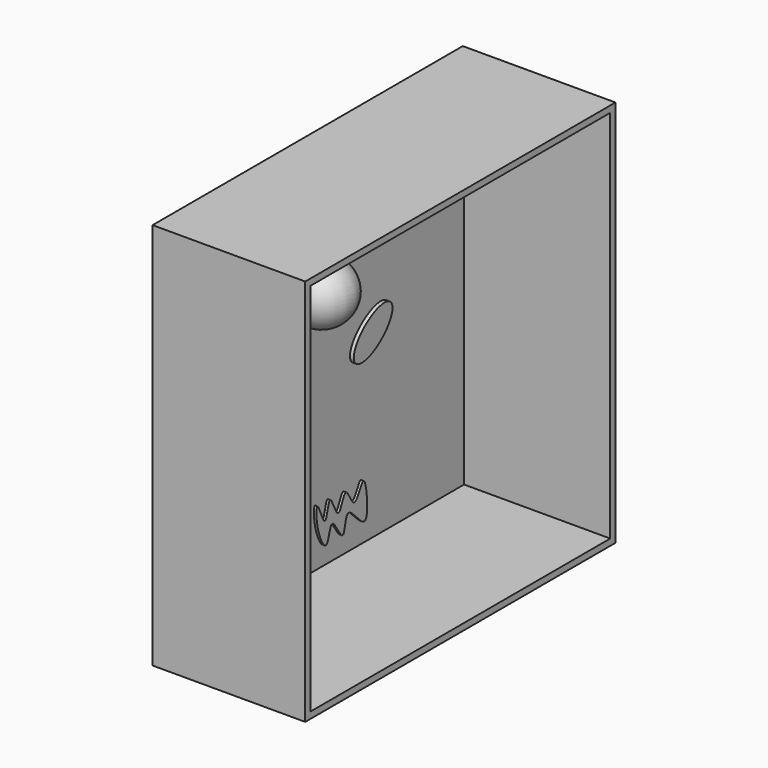
from build123d import *

# Parameters (mm, degrees)
F0_W      = 152.4
F0_H      = 152.4
F1_DEPTH  = 60
F2_T      = -2.54
F6_DEPTH  = 1.5
F7_R      = 3.6802392171
F8_DEPTH  = 0.5
F7_R_2    = 4.9126378425
F7_R_3    = 4.6610638241
F10_DEPTH = 1.5
F12_DEPTH = 1


with BuildPart() as f1:
    # F0 (on Right) → F1 (new body)
    with BuildSketch(Plane.YZ):
        with Locations((76.2, -76.2)):
            Rectangle(F0_W, F0_H)
    extrude(amount=F1_DEPTH)

    # F2
    f2_openings = [f1.faces().sort_by_distance(p)[0] for p in [
        (60, 76.2, -76.2),
    ]]
    offset(amount=F2_T, openings=f2_openings)

    # F3 (on face) → F4 (revolve)
    with BuildSketch(Plane.YZ.offset(2.54)):
        with BuildLine():
            ThreePointArc((79.6633884311, -65.9698620439), (91.8318244958, -54.4532556087), (79.6633884311, -42.9366491735))
            Line((79.6633884311, -42.9366491735), (79.6633884311, -65.9698620439))
        make_face()
    revolve(axis=Axis((2.54, 79.6633884311, -54.4532556087), (0, 0, -1)))


with BuildPart() as f6:
    # F5 (on face) → F6 (new body)
    with BuildSketch(Plane.YZ.offset(2.54)):
        with BuildLine():
            add(Edge.make_bspline(
                [(54.6334125102, -99.5150879025), (47.4939176999, -94.5946848604), (41.8866601866, -110.3707018601), (36.2794026732, -126.1467188597), (49.0261549968, -115.2911049022), (61.7729073204, -104.4354909446), (54.6334125102, -99.5150879025)],
                knots=[0, 0, 0, 2.0943951024, 2.0943951024, 4.1887902048, 4.1887902048, 6.2831853072, 6.2831853072, 6.2831853072], degree=2, weights=[1, 0.5, 1, 0.5, 1, 0.5, 1]))
        make_face()
    extrude(amount=F6_DEPTH)


with BuildPart() as f6b:
    # F5 (on face) → F6, piece 2 (new body)
    with BuildSketch(Plane.YZ.offset(2.54)):
        with BuildLine():
            add(Edge.make_bspline(
                [(112.1974140406, -71.0754618049), (106.2446007841, -63.3447960564), (95.89738, -77.4696678196), (85.5501592159, -91.5945395827), (101.8501932565, -85.200333568), (118.150227297, -78.8061275534), (112.1974140406, -71.0754618049)],
                knots=[0, 0, 0, 2.0943951024, 2.0943951024, 4.1887902048, 4.1887902048, 6.2831853072, 6.2831853072, 6.2831853072], degree=2, weights=[1, 0.5, 1, 0.5, 1, 0.5, 1]))
        make_face()
    extrude(amount=F6_DEPTH)


with BuildPart() as f8:
    # F7 (on face) → F8 (new body)
    with BuildSketch(Plane.YZ.offset(2.54)):
        with Locations((21.4821659029, -82.1004807949)):
            Circle(F7_R)
    extrude(amount=F8_DEPTH)


with BuildPart() as f8b:
    # F7 (on face) → F8, piece 2 (new body)
    with BuildSketch(Plane.YZ.offset(2.54)):
        with Locations((28.8568027318, -68.3181658387)):
            Circle(F7_R_2)
    extrude(amount=F8_DEPTH)


with BuildPart() as f8c:
    # F7 (on face) → F8, piece 3 (new body)
    with BuildSketch(Plane.YZ.offset(2.54)):
        with Locations((36.3130606711, -82.1004807949)):
            Circle(F7_R_3)
    extrude(amount=F8_DEPTH)


with BuildPart() as f10:
    # F9 (on face) → F10 (new body)
    with BuildSketch(Plane.YZ.offset(2.54)):
        with BuildLine():
            add(Edge.make_bspline(
                [(95.9383770823, -35.996016115), (95.9293608456, -38.0932078817), (90.9877935838, -40.5322890118), (91.2481752228, -29.3256521173), (82.5726739471, -44.3206798556), (77.9327126025, -17.0704541216), (81.7499378188, -54.8152863909), (69.0863393444, 1.0477108554), (112.2973153056, -40.5625273894), (85.1575007133, -21.9759959521), (95.952071164, -32.8107497878), (95.9383770823, -35.996016115)],
                knots=[0, 0, 0, 0, 0.0685235956, 0.1451500679, 0.2357095086, 0.3463854747, 0.4628040197, 0.6204384274, 0.7898918566, 0.8959246812, 1, 1, 1, 1], degree=3))
        make_face()
    extrude(amount=F10_DEPTH)


with BuildPart() as f12:
    # F11 (on face) → F12 (new body)
    with BuildSketch(Plane.YZ.offset(2.54)):
        with BuildLine():
            add(Edge.make_bspline(
                [(76.5925943851, -134.2953890562), (75.7833761392, -130.4143942087), (76.1663125191, -122.7097214726), (80.8182584961, -139.7236970888), (82.237473067, -121.6093115974), (87.0207922966, -139.6253654383), (90.1675474334, -122.8776632914), (94.699996039, -138.2881401986), (99.2540699118, -123.6333605612), (101.3101880165, -134.2351388114), (100.8772958176, -146.9482321587), (90.0159743026, -129.7923681325), (90.1413878179, -148.2670985604), (82.9989374766, -130.7124918497), (81.7447865129, -147.3434171735), (77.531063767, -138.7962698187), (76.5925943851, -134.2953890562)],
                knots=[0, 0, 0, 0, 0.0688529336, 0.1400176531, 0.2081769877, 0.2796739571, 0.3476823951, 0.4155821726, 0.4846382778, 0.5527223455, 0.6264706697, 0.7087284864, 0.7783369951, 0.8524330573, 0.9201496378, 1, 1, 1, 1], degree=3))
        make_face()
    extrude(amount=F12_DEPTH)


solid = Compound([f1.part, f6.part, f6b.part, f8.part, f8b.part, f8c.part, f10.part, f12.part])
